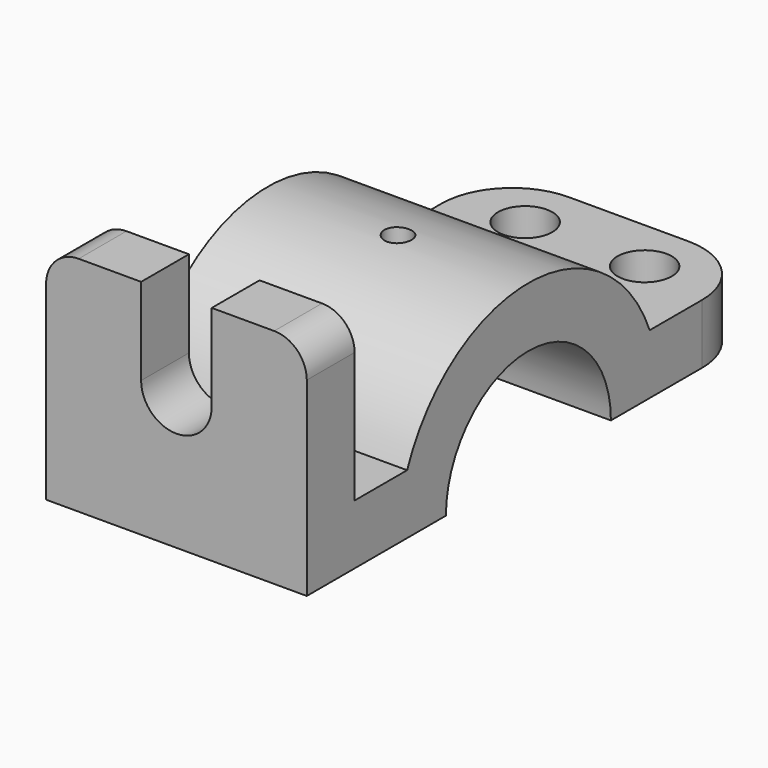
from build123d import *

# Parameters (mm, degrees)
F1_DEPTH = 279.4
F3_DEPTH = 609.6
F4_R     = 127
F5_DEPTH = 279.401
F6_DEPTH = 762.001
F7_R     = 330.2


with BuildPart() as f1:
    # F0 (on Front) → F1 (new body)
    with BuildSketch(Plane.XZ):
        with BuildLine():
            Line((-609.6, 0), (0, 0))
            Line((0, 0), (609.6, 0))
            Line((609.6, 0), (609.6, 889))
            ThreePointArc((609.6, 889), (564.963073, 996.763073), (457.2, 1041.4))
            Line((457.2, 1041.4), (165.1, 1041.4))
            Line((165.1, 1041.4), (165.1, 635))
            ThreePointArc((165.1, 635), (0, 469.9), (-165.1, 635))
            Line((-165.1, 635), (-165.1, 1041.4))
            Line((-165.1, 1041.4), (-457.2, 1041.4))
            ThreePointArc((-457.2, 1041.4), (-564.963073, 996.763073), (-609.6, 889))
            Line((-609.6, 889), (-609.6, 0))
        make_face()
    extrude(amount=F1_DEPTH)

    # F2 (on Right) → F3 (join, symmetric)
    with BuildSketch(Plane.YZ):
        with BuildLine():
            Line((0, 279.4), (0, 0))
            Line((0, 0), (533.781, 0))
            ThreePointArc((533.781, 0), (1016, 482.219), (1498.219, 0))
            Line((1498.219, 0), (2362.2, 0))
            Line((2362.2, 0), (2362.2, 279.4))
            Line((2362.2, 279.4), (1724.928515, 279.4))
            ThreePointArc((1724.928515, 279.4), (1016, 762), (307.071485, 279.4))
            Line((307.071485, 279.4), (0, 279.4))
        make_face()
    extrude(amount=F3_DEPTH, both=True)

    # F4 (on face) → F5 (cut, through all)
    with BuildSketch(Plane.XY.offset(279.4)):
        with Locations((279.4, 2108.2)):
            Circle(F4_R)
        with Locations((-279.4, 2108.2)):
            Circle(F4_R)
        with BuildLine():
            ThreePointArc((0, 952.5), (44.901281, 971.098719), (63.5, 1016))
            ThreePointArc((63.5, 1016), (-44.901281, 1060.901281), (0, 952.5))
        make_face()
    extrude(amount=-F5_DEPTH, mode=Mode.SUBTRACT)

    # F4 (on face) → F6 (cut, through all)
    with BuildSketch(Plane.XY.offset(279.4)):
        with Locations((279.4, 2108.2)):
            Circle(F4_R)
        with Locations((-279.4, 2108.2)):
            Circle(F4_R)
        with BuildLine():
            ThreePointArc((0, 952.5), (44.901281, 971.098719), (63.5, 1016))
            ThreePointArc((63.5, 1016), (-44.901281, 1060.901281), (0, 952.5))
        make_face()
    extrude(amount=F6_DEPTH, mode=Mode.SUBTRACT)

    # F7
    f7_edges = [f1.edges().sort_by_distance(p)[0] for p in [
        (-609.6, 2362.2, 139.7),
        (609.6, 2362.2, 139.7),
    ]]
    fillet(f7_edges, radius=F7_R)


solid = f1.part
